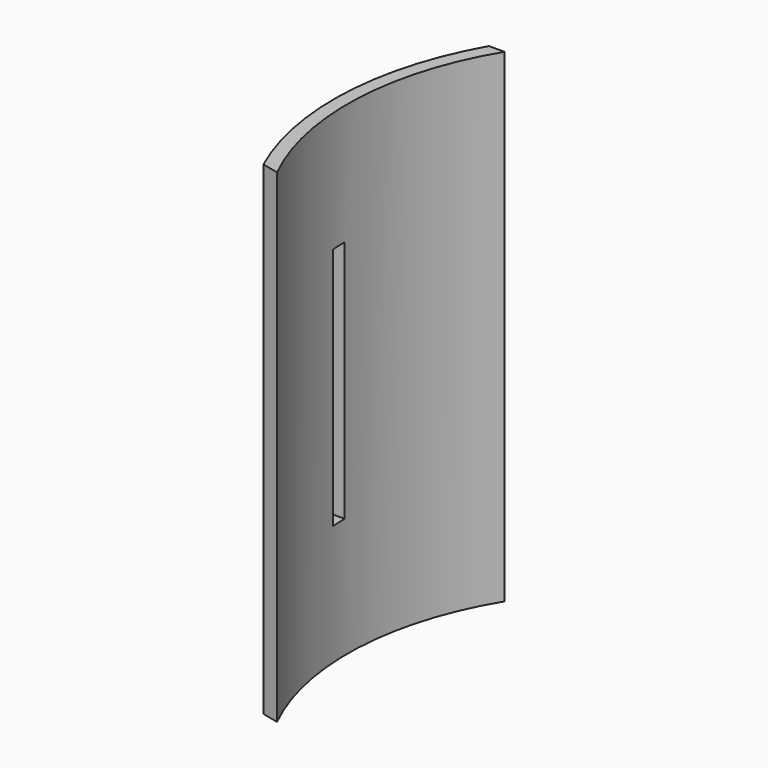
from build123d import *

# Parameters (mm, degrees)
F1_DEPTH = 76.2
F2_W     = 4.913513
F2_H     = 76.708
F3_DEPTH = 50.8


with BuildPart() as f1:
    # F0 (on Top) → F1 (new body, symmetric)
    with BuildSketch(Plane.XY):
        with BuildLine():
            Line((-14.237757, -4.885755), (-19.169552, -4.935114))
            ThreePointArc((-19.169552, -4.935114), (-31.159886, -46.375263), (-23.097479, -88.755114))
            Line((-23.097479, -88.755114), (-17.844147, -89.975755))
            ThreePointArc((-17.844147, -89.975755), (-26.952715, -46.96828), (-14.237757, -4.885755))
        make_face()
    extrude(amount=F1_DEPTH, both=True)

    # F2 (on Right) → F3 (cut)
    with BuildSketch(Plane.YZ):
        with Locations((-54.332511, 0)):
            Rectangle(F2_W, F2_H)
    extrude(amount=-F3_DEPTH, mode=Mode.SUBTRACT)


solid = f1.part
